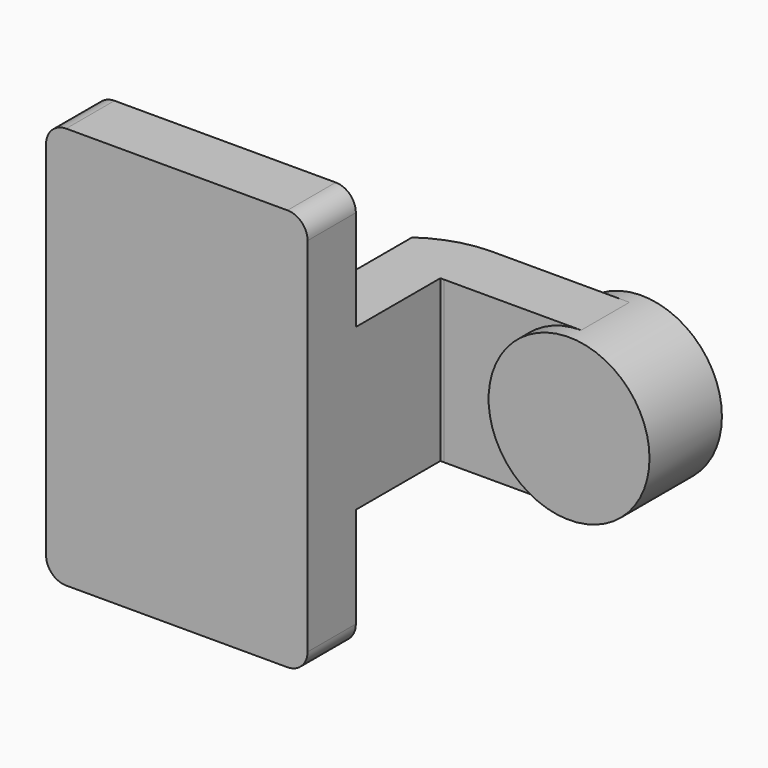
from build123d import *

# Parameters (mm, degrees)
F1_DEPTH = 63.5
F0_W     = 25.4
F0_H     = 19.05
F2_DEPTH = 25.4
F3_DEPTH = 7.9375
F4_R     = 6.35


with BuildPart() as f1:
    # F0 (on Top) → F1 (new body, symmetric)
    with BuildSketch(Plane.XY):
        Polygon((-41.275, -9.525), (41.275, -9.525), (41.275, 9.525), (22.225, 9.525), (-41.275, 9.525), align=None)
    extrude(amount=F1_DEPTH, both=True)

    # F0 (on Top) → F2 (join, symmetric)
    with BuildSketch(Plane.XY):
        with BuildLine():
            Line((22.225, 9.525), (41.275, 9.525))
            Line((41.275, 9.525), (41.275, 42.8379135305))
            ThreePointArc((41.275, 42.8379135305), (41.8183842247, 42.8658756442), (42.3624075254, 42.8752))
            Line((42.3624075254, 42.8752), (60.325, 42.8752))
            Line((60.325, 42.8752), (60.325, 61.9252))
            Line((60.325, 61.9252), (42.3624075254, 61.9252))
            add(Edge.make_bspline(
                [(41.3653767795, 61.9109655988), (41.6979264338, 61.916873269), (42.0302788073, 61.9216177836), (42.3624075254, 61.9252)],
                knots=[97.8694671613, 97.8694671613, 97.8694671613, 97.8694671613, 98.6964887806, 98.6964887806, 98.6964887806, 98.6964887806], degree=3))
            ThreePointArc((41.3653767795, 61.9109655988), (31.324788218, 60.1351752531), (22.225, 55.5350986883))
            Line((22.225, 55.5350986883), (22.225, 9.525))
        make_face()
        with Locations((73.025, 52.4002)):
            Rectangle(F0_W, F0_H)
    extrude(amount=F2_DEPTH, both=True)

    # F0 (on Top) → F3 (join, symmetric)
    with BuildSketch(Plane.XY):
        with BuildLine():
            add(Edge.make_bspline(
                [(-41.275, 9.525), (-40.1050332587, 44.223586325), (2.0115597622, 61.211853837), (41.3653767795, 61.9109655988)],
                knots=[0, 0, 0, 0, 97.8694671613, 97.8694671613, 97.8694671613, 97.8694671613], degree=3))
            Line((-41.275, 9.525), (22.225, 9.525))
            Line((22.225, 9.525), (22.225, 55.5350986883))
            ThreePointArc((22.225, 55.5350986883), (31.324788218, 60.1351752531), (41.3653767795, 61.9109655988))
        make_face()
    extrude(amount=F3_DEPTH, both=True)

    # F4
    f4_edges = [f1.edges().sort_by_distance(p)[0] for p in [
        (41.275, 0, 63.5),
        (-41.275, 0, 63.5),
        (-41.275, 0, -63.5),
        (41.275, 0, -63.5),
    ]]
    fillet(f4_edges, radius=F4_R)

    # F0 (on Top) → F5 (revolve)
    with BuildSketch(Plane.XY):
        Polygon((85.725, 61.9252), (85.725, 42.8752), (85.725, 38.1), (111.125, 38.1), (111.125, 66.675), (85.725, 66.675), align=None)
    revolve(axis=Axis((85.725, 52.3875, 0), (0, 1, 0)))


solid = f1.part
